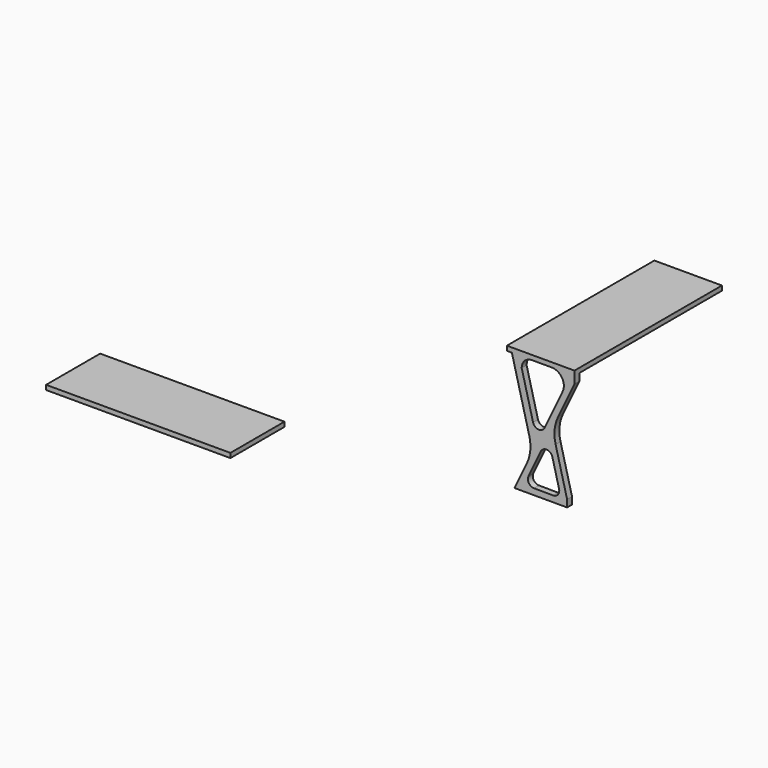
from build123d import *

# Parameters (mm, degrees)
F2_W     = 558.8
F2_H     = 1524
F3_DEPTH = 38.1
F5_DEPTH = 50.8


with BuildPart() as f3:
    # F2 (on offset) → F3 (new body)
    with BuildSketch(Plane.XY.offset(1016)):
        Polygon((254, -1625.6), (-558.8, -1625.6), (-1270, -1625.6), (-1270, -2184.4), (254, -2184.4), align=None)
        with Locations((990.6, 863.6)):
            Rectangle(F2_W, F2_H)
    extrude(amount=-F3_DEPTH)

    # F4 (on face) → F5 (join)
    with BuildSketch(Plane.XZ.offset(-101.6)):
        with BuildLine():
            Line((774.43853, 0), (802.590824, 0))
            Line((802.590824, 0), (1209.17935, 0))
            Line((1209.17935, 0), (1209.17935, 58.9026))
            Line((1209.17935, 58.9026), (1114.151788, 427.58129))
            ThreePointArc((1114.151788, 427.58129), (1105.932096, 533.117607), (1134.303658, 635.100607))
            Line((1134.303658, 635.100607), (1270, 919.000581))
            Line((1270, 919.000581), (1270, 977.9))
            Line((1270, 977.9), (1241.847705, 977.9))
            Line((1241.847705, 977.9), (1080.676535, 977.9))
            ThreePointArc((1080.676535, 977.9), (1166.624479, 930.480355), (1172.343663, 832.485646))
            Line((1172.343663, 832.485646), (1022.639856, 519.279658))
            ThreePointArc((1022.639856, 519.279658), (971.896281, 490.624677), (927.614083, 528.507459))
            Line((927.614083, 528.507459), (833.84013, 892.322517))
            ThreePointArc((833.84013, 892.322517), (857.330735, 952.683692), (916.991591, 977.9))
            Line((916.991591, 977.9), (752.633109, 977.9))
            Line((752.633109, 977.9), (896.333819, 420.383965))
            ThreePointArc((896.333819, 420.383965), (904.553511, 314.847647), (876.181949, 212.864648))
            Line((876.181949, 212.864648), (774.43853, 0))
        make_face()
        with BuildLine():
            Line((1087.217078, 328.549437), (1142.683939, 113.354505))
            ThreePointArc((1142.683939, 113.354505), (1133.646134, 69.558191), (1093.49173, 49.875129))
            Line((1093.49173, 49.875129), (935.6097, 50.8))
            ThreePointArc((935.6097, 50.8), (892.635728, 74.509823), (889.776136, 123.507177))
            Line((889.776136, 123.507177), (992.191304, 337.777239))
            ThreePointArc((992.191304, 337.777239), (1042.934879, 366.432219), (1087.217078, 328.549437))
        make_face(mode=Mode.SUBTRACT)
    extrude(amount=-F5_DEPTH)


solid = f3.part
